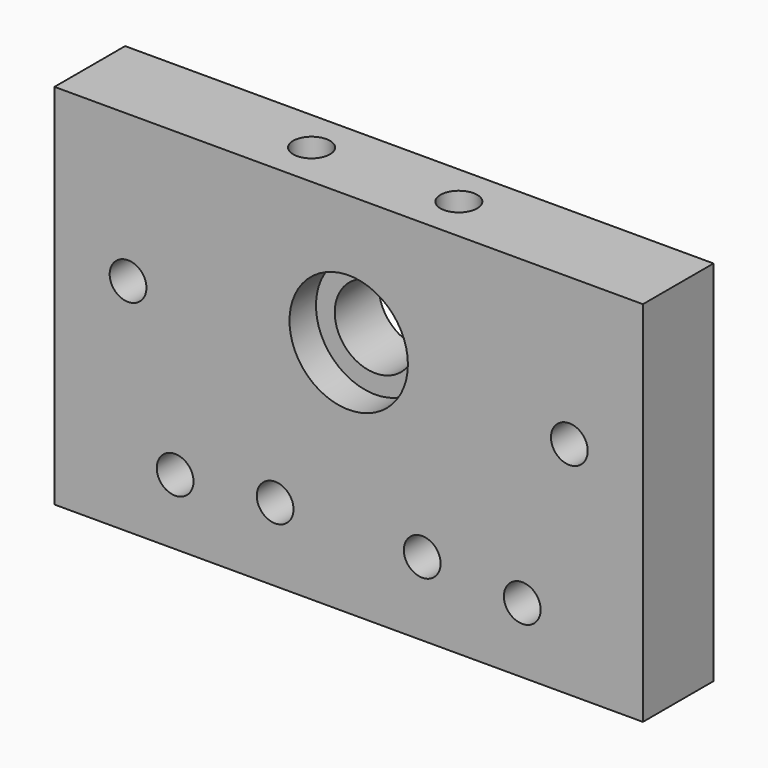
from build123d import *

# Parameters (mm, degrees)
SKETCH023_W     = 80
SKETCH023_H     = 50
SKETCH023_R     = 2.5
SKETCH023_R_2   = 5.5
PAD005_DEPTH    = 12
SKETCH024_R     = 2.5
POCKET015_DEPTH = 11
SKETCH025_R     = 8.05
POCKET016_DEPTH = 4.5
SKETCH026_R     = 4.6
SKETCH026_R_2   = 4.624594
SKETCH026_R_3   = 4.583454
SKETCH026_R_4   = 4.624604
POCKET017_DEPTH = 1.55


with BuildPart() as part:
    # Sketch023 → Pad005 (new body)
    with BuildSketch(Plane(origin=(178, 335, 0), x_dir=(1, 0, 0), z_dir=(0, -1, 0))):
        with Locations((40, 25)):
            Rectangle(SKETCH023_W, SKETCH023_H)
        with Locations((10, 30)):
            Circle(SKETCH023_R, mode=Mode.SUBTRACT)
        with Locations((30, 10)):
            Circle(SKETCH023_R, mode=Mode.SUBTRACT)
        with Locations((16.4, 8.9)):
            Circle(SKETCH023_R, mode=Mode.SUBTRACT)
        with Locations((50, 10)):
            Circle(SKETCH023_R, mode=Mode.SUBTRACT)
        with Locations((63.6, 8.9)):
            Circle(SKETCH023_R, mode=Mode.SUBTRACT)
        with Locations((70, 30)):
            Circle(SKETCH023_R, mode=Mode.SUBTRACT)
        with Locations((40, 32.4)):
            Circle(SKETCH023_R_2, mode=Mode.SUBTRACT)
    extrude(amount=PAD005_DEPTH)

    # Sketch024 → Pocket015 (cut)
    with BuildSketch(Plane(origin=(178, 335, 50), x_dir=(-1, 0, 0), z_dir=(0, 0, 1))):
        with Locations((-30.033846, 5.850095)):
            Circle(SKETCH024_R)
        with Locations((-50.003807, 5.788844)):
            Circle(SKETCH024_R)
    extrude(amount=-POCKET015_DEPTH, mode=Mode.SUBTRACT)

    # Sketch025 → Pocket016 (cut)
    with BuildSketch(Plane(origin=(178, 323, 0), x_dir=(1, 0, 0), z_dir=(0, -1, 0))):
        with Locations((40, 32.4)):
            Circle(SKETCH025_R)
    extrude(amount=-POCKET016_DEPTH, mode=Mode.SUBTRACT)

    # Sketch026 → Pocket017 (cut)
    with BuildSketch(Plane(origin=(178, 335, 0), x_dir=(1, 0, 0), z_dir=(0, 1, 0))):
        with Locations((10, -30)):
            Circle(SKETCH026_R)
        with Locations((70, -30)):
            Circle(SKETCH026_R_2)
        with Locations((30, -10)):
            Circle(SKETCH026_R_3)
        with Locations((50, -10)):
            Circle(SKETCH026_R_4)
    extrude(amount=-POCKET017_DEPTH, mode=Mode.SUBTRACT)


solid = part.part
